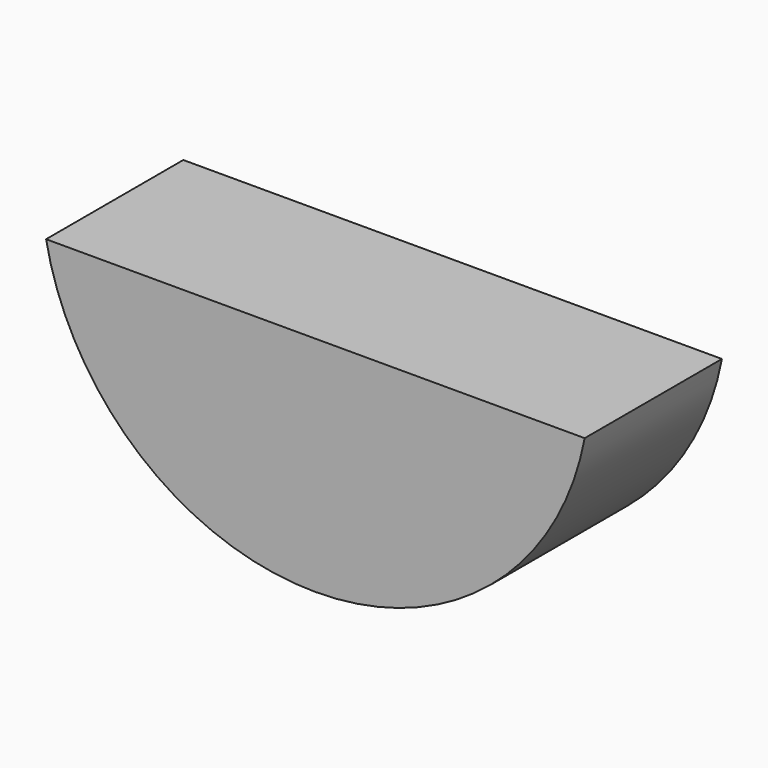
from build123d import *

# Parameters (mm, degrees)
PAD_DEPTH = 2.5


with BuildPart() as part:
    # Sketch → Pad (new body, symmetric)
    with BuildSketch(Plane.XZ):
        with BuildLine():
            ThreePointArc((-7.85, 0), (0, -6.5), (7.85, 0))
            Line((-7.85, 0), (7.85, 0))
        make_face()
    extrude(amount=PAD_DEPTH, both=True)


solid = part.part
